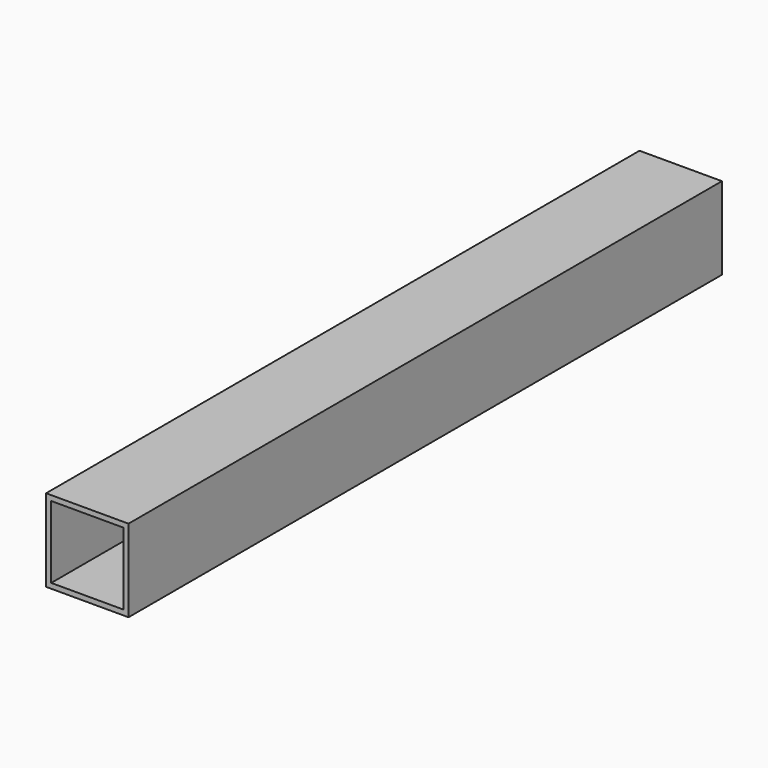
from build123d import *

# Parameters (mm, degrees)
F0_W     = 457.2
F0_H     = 50.8
F1_DEPTH = 25.4
F2_T     = -3.175


with BuildPart() as f1:
    # F0 (on Right) → F1 (new body, symmetric)
    with BuildSketch(Plane.YZ):
        Rectangle(F0_W, F0_H)
    extrude(amount=F1_DEPTH, both=True)

    # F2
    f2_openings = [f1.faces().sort_by_distance(p)[0] for p in [
        (0, -228.6, 0),
        (0, 228.6, 0),
    ]]
    offset(amount=F2_T, openings=f2_openings)


solid = f1.part
